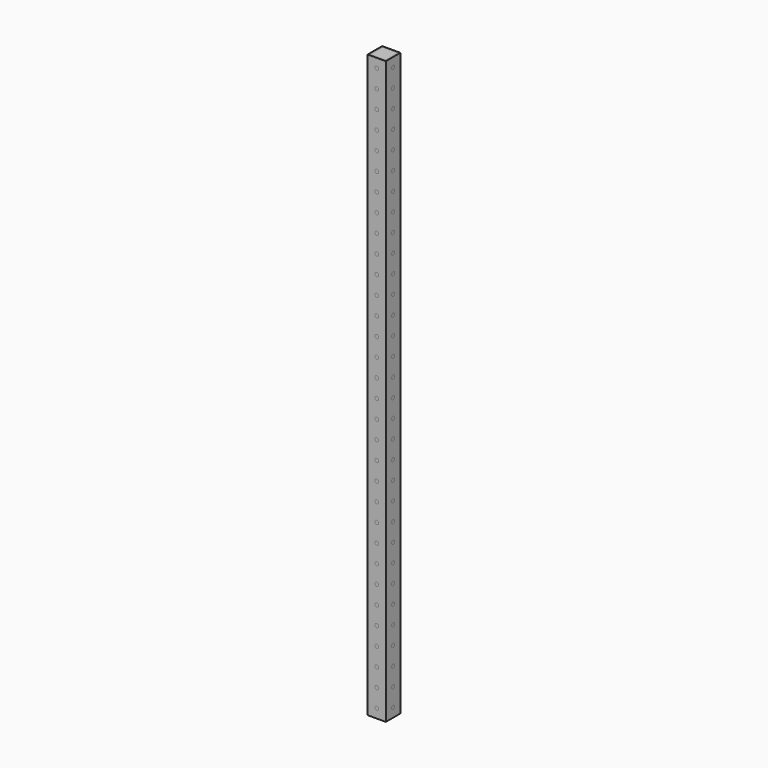
from build123d import *

# Parameters (mm, degrees)
BOX_W                  = 38.1
BOX_H                  = 38.1
BOX_DEPTH              = 1219.2
CYLINDER001_R          = 4
CYLINDER001_DEPTH      = 38.1
CYLINDER001_ROLL_ANGLE = 90
ARRAY_Z_COUNT          = 32
ARRAY_Z_PITCH          = 38.1
CYLINDER_R             = 4
CYLINDER_DEPTH         = 38.1
CYLINDER_PITCH_ANGLE   = 90
ARRAY001_Z_COUNT       = 32
ARRAY001_Z_PITCH       = 38.1
BOX001_W               = 32.1
BOX001_H               = 32.1
BOX001_DEPTH           = 1219.2


with BuildPart() as beam:
    # Box → Box (new body)
    with BuildSketch(Plane.XY):
        with Locations((19.05, 19.05)):
            Rectangle(BOX_W, BOX_H)
    extrude(amount=BOX_DEPTH)


with BuildPart() as holes1:
    # Cylinder001 → Cylinder001 (new body)
    with BuildSketch(Plane.XY):
        Circle(CYLINDER001_R)
    extrude(amount=CYLINDER001_DEPTH)


with BuildPart() as holes1_1:
    # Cylinder001 roll: moved
    add(holes1.part.rotate(Axis((0, 0, 0), (1, 0, 0)), CYLINDER001_ROLL_ANGLE))


with BuildPart() as holes1_2:
    # Cylinder001 placement: moved
    add(holes1_1.part.moved(Location((19.05, 38.1, 19.05))))

    # Array Z: Holes1 ×32


with BuildPart() as holes1_3:
    add(holes1_2.part)
    with Locations(*[(0, 0, i * ARRAY_Z_PITCH) for i in range(1, ARRAY_Z_COUNT)]):
        add(holes1_2.part)


with BuildPart() as holes2:
    # Cylinder → Cylinder (new body)
    with BuildSketch(Plane.XY):
        Circle(CYLINDER_R)
    extrude(amount=CYLINDER_DEPTH)


with BuildPart() as holes2_1:
    # Cylinder pitch: moved
    add(holes2.part.rotate(Axis((0, 0, 0), (0, 1, 0)), CYLINDER_PITCH_ANGLE))


with BuildPart() as holes2_2:
    # Cylinder placement: moved
    add(holes2_1.part.moved(Location((0, 19.05, 19.05))))

    # Array001 Z: Holes2 ×32


with BuildPart() as holes2_3:
    add(holes2_2.part)
    with Locations(*[(0, 0, i * ARRAY001_Z_PITCH) for i in range(1, ARRAY001_Z_COUNT)]):
        add(holes2_2.part)


with BuildPart() as cutout:
    # Box001 → Box001 (new body)
    with BuildSketch(Plane(origin=(3, 3, 0), x_dir=(1, 0, 0), z_dir=(0, 0, 1))):
        with Locations((16.05, 16.05)):
            Rectangle(BOX001_W, BOX001_H)
    extrude(amount=BOX001_DEPTH)


solid = Compound([beam.part, holes1_3.part, holes2_3.part, cutout.part])
